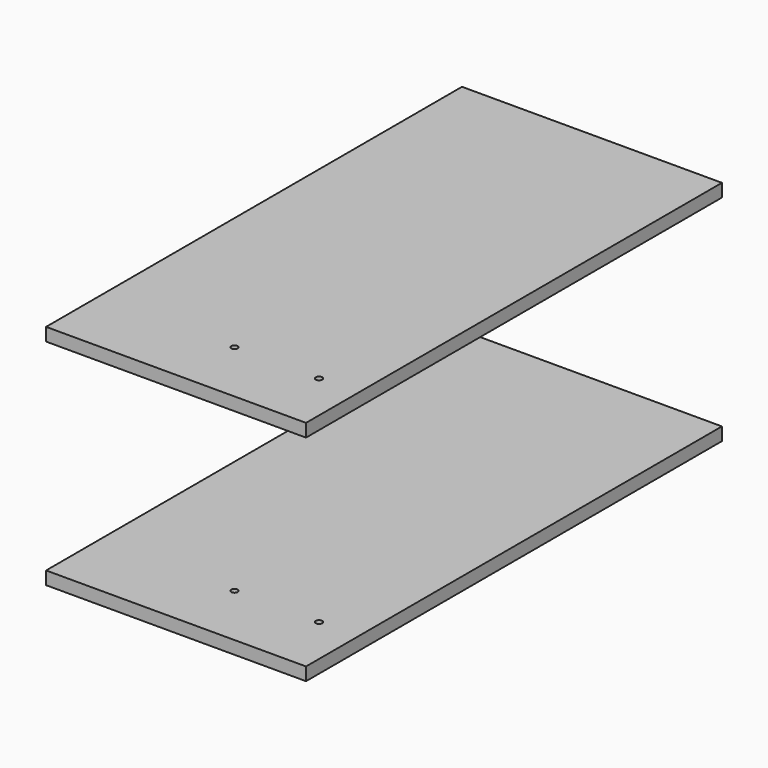
from build123d import *

# Parameters (mm, degrees)
F0_W     = 80
F0_H     = 160
F0_R     = 1
F1_DEPTH = 4


with BuildPart() as f1:
    # F0 (on Top) → F1 (new body)
    with BuildSketch(Plane.XY):
        Rectangle(F0_W, F0_H)
        with Locations((2, -60)):
            Circle(F0_R, mode=Mode.SUBTRACT)
        with Locations((28, -60)):
            Circle(F0_R, mode=Mode.SUBTRACT)
    extrude(amount=F1_DEPTH)


with BuildPart() as f3_1:
    # F3: instance of F1
    add(f1.part.mirror(Plane.XY.offset(35)))


solid = Compound([f1.part, f3_1.part])
